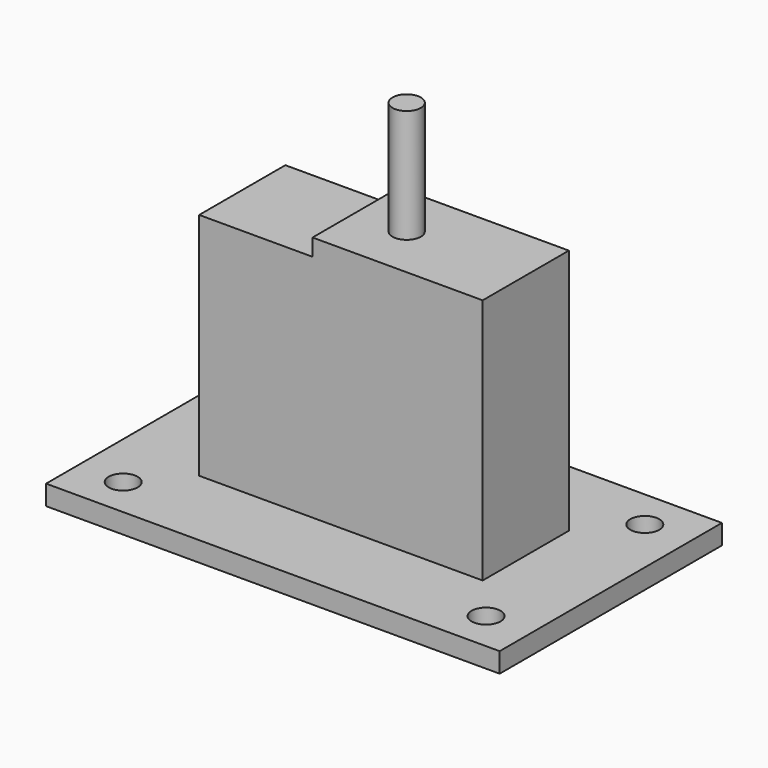
from build123d import *

# Parameters (mm, degrees)
F0_W      = 50
F0_H      = 19
F1_DEPTH  = 44
F2_W      = 30
F2_H      = 19
F3_DEPTH  = 3
F4_R      = 2.5
F5_DEPTH  = 20
F6_W      = 80
F6_H      = 49
F7_DEPTH  = 3.5
F8_R      = 2.55
F9_DEPTH  = 3.5
F10_W     = 45
F10_H     = 14
F11_DEPTH = 42


with BuildPart() as f1:
    # F0 (on Top) → F1 (new body)
    with BuildSketch(Plane.XY):
        Rectangle(F0_W, F0_H)
    extrude(amount=F1_DEPTH)

    # F2 (on face) → F3 (join)
    with BuildSketch(Plane.XY.offset(44)):
        with Locations((10, 0)):
            Rectangle(F2_W, F2_H)
    extrude(amount=F3_DEPTH)

    # F4 (on face) → F5 (join)
    with BuildSketch(Plane.XY.offset(47)):
        with Locations((4, 0)):
            Circle(F4_R)
    extrude(amount=F5_DEPTH)

    # F6 (on face) → F7 (join)
    with BuildSketch(Plane(origin=(0, 0, 0), x_dir=(1, 0, 0), z_dir=(0, 0, -1))):
        Rectangle(F6_W, F6_H)
    extrude(amount=-F7_DEPTH)

    # F8 (on face) → F9 (cut, through all)
    with BuildSketch(Plane.XY.offset(3.5)):
        with Locations((-32, 17.5)):
            Circle(F8_R)
        with Locations((32, 17.5)):
            Circle(F8_R)
        with Locations((-32, -17.5)):
            Circle(F8_R)
        with Locations((32, -17.5)):
            Circle(F8_R)
    extrude(amount=-F9_DEPTH, mode=Mode.SUBTRACT)

    # F10 (on face) → F11 (cut)
    with BuildSketch(Plane(origin=(0, 0, 0), x_dir=(1, 0, 0), z_dir=(0, 0, -1))):
        Rectangle(F10_W, F10_H)
    extrude(amount=-F11_DEPTH, mode=Mode.SUBTRACT)


solid = f1.part
